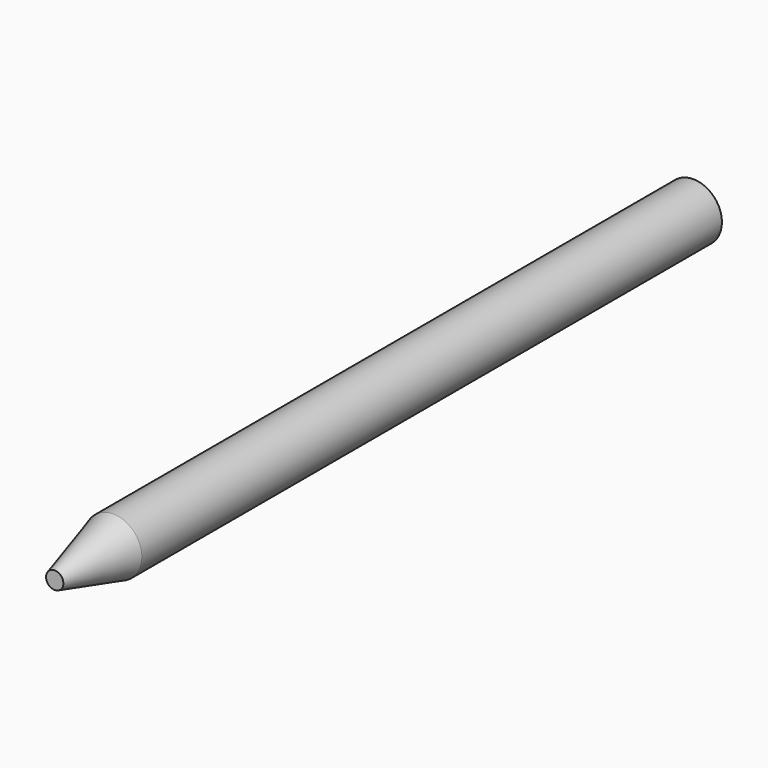
from build123d import *

# Parameters (mm, degrees)
F0_R     = 5.461
F1_DEPTH = 76.2
F2_SIZE2 = 13.97
F2_SIZE  = 3.81


with BuildPart() as f1:
    # F0 (on Front) → F1 (new body, symmetric)
    with BuildSketch(Plane.XZ):
        Circle(F0_R)
    extrude(amount=F1_DEPTH, both=True)

    # F2
    f2_edges = [f1.edges().sort_by_distance(p)[0] for p in [
        (-5.461, -76.2, 0),
    ]]
    f2_side = f1.faces().sort_by_distance((0, -76.2, 0))[0]
    chamfer(f2_edges, length=F2_SIZE, length2=F2_SIZE2, reference=f2_side)


solid = f1.part
